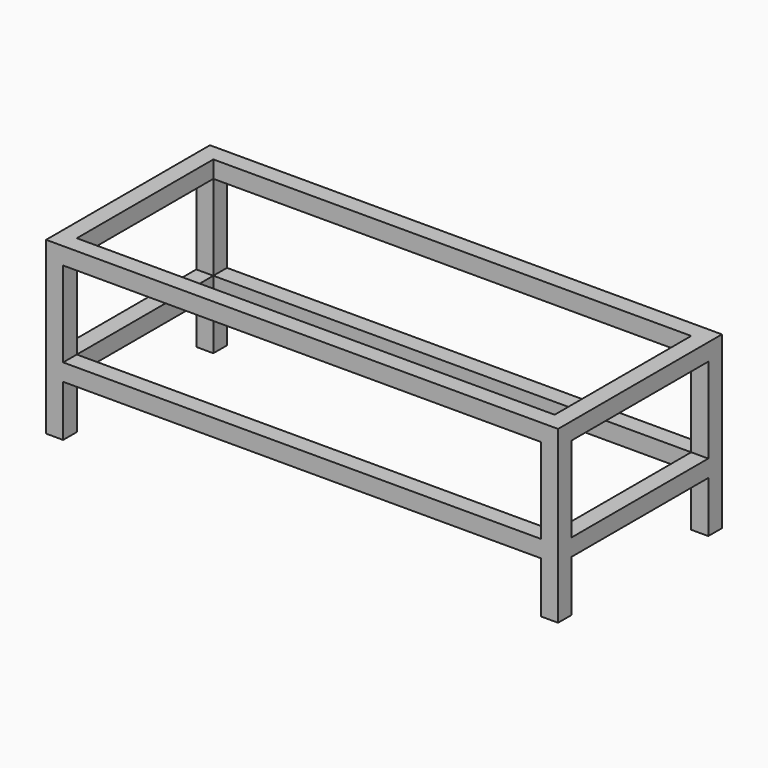
from build123d import *

# Parameters (mm, degrees)
F0_W          = 3000
F0_H          = 1200
F0_W_2        = 2800
F0_H_2        = 1000
F1_DEPTH      = 1000
F2_W          = 2800
F2_H          = 500
F2_H_2        = 300
F3_DEPTH      = 600.001
F3_DEPTH_BACK = 600.001
F4_W          = 1000
F4_H          = 500
F4_H_2        = 300
F5_DEPTH      = 1500.001
F5_DEPTH_BACK = 1500.001


with BuildPart() as f1:
    # F0 (on Top) → F1 (new body)
    with BuildSketch(Plane.XY):
        Rectangle(F0_W, F0_H)
        Rectangle(F0_W_2, F0_H_2, mode=Mode.SUBTRACT)
    extrude(amount=F1_DEPTH)

    # F2 (on Front) → F3 (cut, two sides)
    with BuildSketch(Plane.XZ) as f3_sk:
        with Locations((0, 650)):
            Rectangle(F2_W, F2_H)
        with Locations((0, 150)):
            Rectangle(F2_W, F2_H_2)
    extrude(amount=-F3_DEPTH, mode=Mode.SUBTRACT)
    extrude(f3_sk.sketch, amount=F3_DEPTH_BACK, mode=Mode.SUBTRACT)

    # F4 (on Right) → F5 (cut, two sides)
    with BuildSketch(Plane.YZ) as f5_sk:
        with Locations((0, 650)):
            Rectangle(F4_W, F4_H)
        with Locations((0, 150)):
            Rectangle(F4_W, F4_H_2)
    extrude(amount=-F5_DEPTH, mode=Mode.SUBTRACT)
    extrude(f5_sk.sketch, amount=F5_DEPTH_BACK, mode=Mode.SUBTRACT)


solid = f1.part
